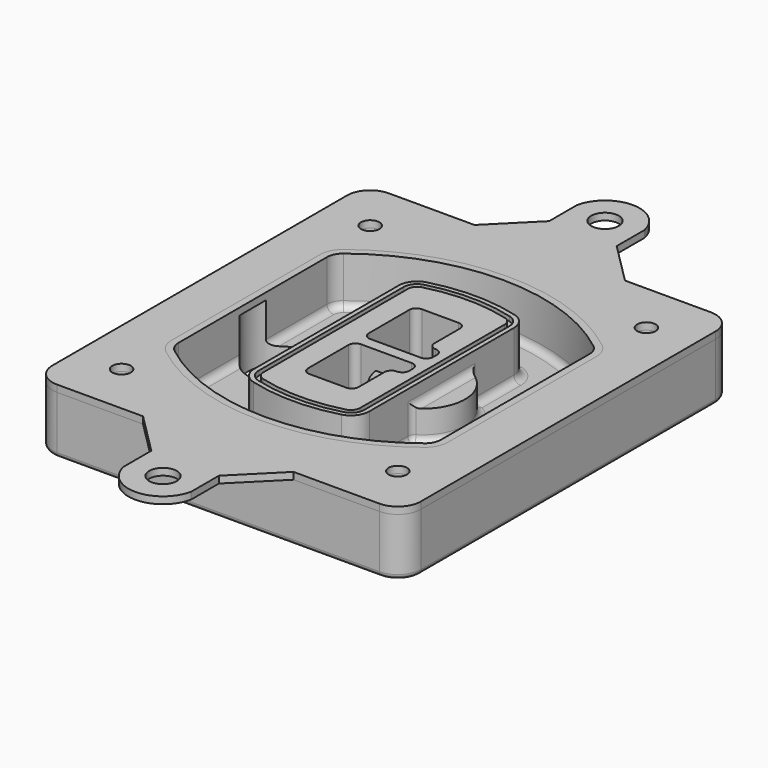
from build123d import *

# Parameters (mm, degrees)
F0_R      = 4
F1_DEPTH  = 25
F2_DEPTH  = 3
F3_DEPTH  = 18
F5_DEPTH  = 21
F6_DEPTH  = 2
F8_DEPTH  = 20
F9_DEPTH  = 16
F10_DEPTH = 25
F7_R      = 6
F7_R_2    = 4
F11_DEPTH = 6
F13_DEPTH = 9
F14_R     = 3
F15_R     = 2
F16_R     = 6
F16_R_2   = 4
F17_DEPTH = 3


with BuildPart() as f1:
    # F0 (on Top) → F1 (new body)
    with BuildSketch(Plane.XY):
        with BuildLine():
            ThreePointArc((-80, -80), (-77.0710678119, -87.0710678119), (-70, -90))
            Line((-70, -90), (70, -90))
            ThreePointArc((70, -90), (77.0710678119, -87.0710678119), (80, -80))
            Line((80, -80), (80, 80))
            ThreePointArc((80, 80), (77.0710678119, 87.0710678119), (70, 90))
            Line((70, 90), (-70, 90))
            ThreePointArc((-70, 90), (-77.0710678119, 87.0710678119), (-80, 80))
            Line((-80, 80), (-80, -80))
        make_face()
        with Locations((-60, -67.5)):
            Circle(F0_R, mode=Mode.SUBTRACT)
        with Locations((60, -67.5)):
            Circle(F0_R, mode=Mode.SUBTRACT)
        with Locations((-60, 67.5)):
            Circle(F0_R, mode=Mode.SUBTRACT)
        with BuildLine():
            ThreePointArc((-64, 40.2934422872), (-62.5820384798, 46.4328484224), (-58.6153846154, 51.3286200352))
            ThreePointArc((-58.6153846154, 51.3286200352), (0, 71.5), (58.6153846154, 51.3286200352))
            ThreePointArc((58.6153846154, 51.3286200352), (62.5820384798, 46.4328484224), (64, 40.2934422872))
            Line((64, 40.2934422872), (64, -40.2934422872))
            ThreePointArc((64, -40.2934422872), (62.5820384798, -46.4328484224), (58.6153846154, -51.3286200352))
            ThreePointArc((58.6153846154, -51.3286200352), (0, -71.5), (-58.6153846154, -51.3286200352))
            ThreePointArc((-58.6153846154, -51.3286200352), (-62.5820384798, -46.4328484224), (-64, -40.2934422872))
            Line((-64, -40.2934422872), (-64, 40.2934422872))
        make_face(mode=Mode.SUBTRACT)
        with Locations((60, 67.5)):
            Circle(F0_R, mode=Mode.SUBTRACT)
        with BuildLine():
            ThreePointArc((58.6153846154, 51.3286200352), (0, 71.5), (-58.6153846154, 51.3286200352))
            ThreePointArc((-58.6153846154, 51.3286200352), (-62.5820384798, 46.4328484224), (-64, 40.2934422872))
            Line((-64, 40.2934422872), (-64, -40.2934422872))
            ThreePointArc((-64, -40.2934422872), (-62.5820384798, -46.4328484224), (-58.6153846154, -51.3286200352))
            ThreePointArc((-58.6153846154, -51.3286200352), (0, -71.5), (58.6153846154, -51.3286200352))
            ThreePointArc((58.6153846154, -51.3286200352), (62.5820384798, -46.4328484224), (64, -40.2934422872))
            Line((64, -40.2934422872), (64, 40.2934422872))
            ThreePointArc((64, 40.2934422872), (62.5820384798, 46.4328484224), (58.6153846154, 51.3286200352))
        make_face()
        with BuildLine():
            Line((-60, -40.2934422872), (-60, 40.2934422872))
            ThreePointArc((-60, 40.2934422872), (-58.9871703427, 44.6787323838), (-56.1538461538, 48.1757121072))
            ThreePointArc((-56.1538461538, 48.1757121072), (0, 67.5), (56.1538461538, 48.1757121072))
            ThreePointArc((56.1538461538, 48.1757121072), (58.9871703427, 44.6787323838), (60, 40.2934422872))
            Line((60, 40.2934422872), (60, -40.2934422872))
            ThreePointArc((60, -40.2934422872), (58.9871703427, -44.6787323838), (56.1538461538, -48.1757121072))
            ThreePointArc((56.1538461538, -48.1757121072), (0, -67.5), (-56.1538461538, -48.1757121072))
            ThreePointArc((-56.1538461538, -48.1757121072), (-58.9871703427, -44.6787323838), (-60, -40.2934422872))
        make_face(mode=Mode.SUBTRACT)
        with BuildLine():
            ThreePointArc((-56.1538461538, 48.1757121072), (-58.9871703427, 44.6787323838), (-60, 40.2934422872))
            Line((-60, 40.2934422872), (-60, -40.2934422872))
            ThreePointArc((-60, -40.2934422872), (-58.9871703427, -44.6787323838), (-56.1538461538, -48.1757121072))
            ThreePointArc((-56.1538461538, -48.1757121072), (0, -67.5), (56.1538461538, -48.1757121072))
            ThreePointArc((56.1538461538, -48.1757121072), (58.9871703427, -44.6787323838), (60, -40.2934422872))
            Line((60, -40.2934422872), (60, 40.2934422872))
            ThreePointArc((60, 40.2934422872), (58.9871703427, 44.6787323838), (56.1538461538, 48.1757121072))
            ThreePointArc((56.1538461538, 48.1757121072), (0, 67.5), (-56.1538461538, 48.1757121072))
        make_face()
        with BuildLine():
            ThreePointArc((54.3076923077, 45.8110311612), (56.2910192399, 43.3631453548), (57, 40.2934422872))
            Line((57, 40.2934422872), (57, -40.2934422872))
            ThreePointArc((57, -40.2934422872), (56.2910192399, -43.3631453548), (54.3076923077, -45.8110311612))
            ThreePointArc((54.3076923077, -45.8110311612), (0, -64.5), (-54.3076923077, -45.8110311612))
            ThreePointArc((-54.3076923077, -45.8110311612), (-56.2910192399, -43.3631453548), (-57, -40.2934422872))
            Line((-57, -40.2934422872), (-57, 40.2934422872))
            ThreePointArc((-57, 40.2934422872), (-56.2910192399, 43.3631453548), (-54.3076923077, 45.8110311612))
            ThreePointArc((-54.3076923077, 45.8110311612), (0, 64.5), (54.3076923077, 45.8110311612))
        make_face(mode=Mode.SUBTRACT)
        with BuildLine():
            Line((57, -40.2934422872), (57, 40.2934422872))
            ThreePointArc((57, 40.2934422872), (56.2910192399, 43.3631453548), (54.3076923077, 45.8110311612))
            ThreePointArc((54.3076923077, 45.8110311612), (0, 64.5), (-54.3076923077, 45.8110311612))
            ThreePointArc((-54.3076923077, 45.8110311612), (-56.2910192399, 43.3631453548), (-57, 40.2934422872))
            Line((-57, 40.2934422872), (-57, -40.2934422872))
            ThreePointArc((-57, -40.2934422872), (-56.2910192399, -43.3631453548), (-54.3076923077, -45.8110311612))
            ThreePointArc((-54.3076923077, -45.8110311612), (0, -64.5), (54.3076923077, -45.8110311612))
            ThreePointArc((54.3076923077, -45.8110311612), (56.2910192399, -43.3631453548), (57, -40.2934422872))
        make_face()
    extrude(amount=-F1_DEPTH)

    # F0 (on Top) → F2 (join)
    with BuildSketch(Plane.XY):
        with BuildLine():
            ThreePointArc((-56.1538461538, 48.1757121072), (-58.9871703427, 44.6787323838), (-60, 40.2934422872))
            Line((-60, 40.2934422872), (-60, -40.2934422872))
            ThreePointArc((-60, -40.2934422872), (-58.9871703427, -44.6787323838), (-56.1538461538, -48.1757121072))
            ThreePointArc((-56.1538461538, -48.1757121072), (0, -67.5), (56.1538461538, -48.1757121072))
            ThreePointArc((56.1538461538, -48.1757121072), (58.9871703427, -44.6787323838), (60, -40.2934422872))
            Line((60, -40.2934422872), (60, 40.2934422872))
            ThreePointArc((60, 40.2934422872), (58.9871703427, 44.6787323838), (56.1538461538, 48.1757121072))
            ThreePointArc((56.1538461538, 48.1757121072), (0, 67.5), (-56.1538461538, 48.1757121072))
        make_face()
        with BuildLine():
            ThreePointArc((54.3076923077, 45.8110311612), (56.2910192399, 43.3631453548), (57, 40.2934422872))
            Line((57, 40.2934422872), (57, -40.2934422872))
            ThreePointArc((57, -40.2934422872), (56.2910192399, -43.3631453548), (54.3076923077, -45.8110311612))
            ThreePointArc((54.3076923077, -45.8110311612), (0, -64.5), (-54.3076923077, -45.8110311612))
            ThreePointArc((-54.3076923077, -45.8110311612), (-56.2910192399, -43.3631453548), (-57, -40.2934422872))
            Line((-57, -40.2934422872), (-57, 40.2934422872))
            ThreePointArc((-57, 40.2934422872), (-56.2910192399, 43.3631453548), (-54.3076923077, 45.8110311612))
            ThreePointArc((-54.3076923077, 45.8110311612), (0, 64.5), (54.3076923077, 45.8110311612))
        make_face(mode=Mode.SUBTRACT)
    extrude(amount=F2_DEPTH)

    # F0 (on Top) → F3 (cut)
    with BuildSketch(Plane.XY):
        with BuildLine():
            Line((57, -40.2934422872), (57, 40.2934422872))
            ThreePointArc((57, 40.2934422872), (56.2910192399, 43.3631453548), (54.3076923077, 45.8110311612))
            ThreePointArc((54.3076923077, 45.8110311612), (0, 64.5), (-54.3076923077, 45.8110311612))
            ThreePointArc((-54.3076923077, 45.8110311612), (-56.2910192399, 43.3631453548), (-57, 40.2934422872))
            Line((-57, 40.2934422872), (-57, -40.2934422872))
            ThreePointArc((-57, -40.2934422872), (-56.2910192399, -43.3631453548), (-54.3076923077, -45.8110311612))
            ThreePointArc((-54.3076923077, -45.8110311612), (0, -64.5), (54.3076923077, -45.8110311612))
            ThreePointArc((54.3076923077, -45.8110311612), (56.2910192399, -43.3631453548), (57, -40.2934422872))
        make_face()
    extrude(amount=-F3_DEPTH, mode=Mode.SUBTRACT)

    # F4 (on face) → F5 (join, through all)
    with BuildSketch(Plane.XY.offset(3)):
        with BuildLine():
            ThreePointArc((-25, -39.2465276821), (-23.3511545998, -44.1109737193), (-19.0842911877, -46.9702398883))
            ThreePointArc((-19.0842911877, -46.9702398883), (0, -49.5), (19.0842911877, -46.9702398883))
            ThreePointArc((19.0842911877, -46.9702398883), (23.3511545998, -44.1109737193), (25, -39.2465276821))
            Line((25, -39.2465276821), (25, 39.2465276821))
            ThreePointArc((25, 39.2465276821), (23.3511545998, 44.1109737193), (19.0842911877, 46.9702398883))
            ThreePointArc((19.0842911877, 46.9702398883), (0, 49.5), (-19.0842911877, 46.9702398883))
            ThreePointArc((-19.0842911877, 46.9702398883), (-23.3511545998, 44.1109737193), (-25, 39.2465276821))
            Line((-25, 39.2465276821), (-25, -39.2465276821))
        make_face()
        with BuildLine():
            ThreePointArc((18.5632183908, 45.0393118368), (21.7633659499, 42.89486221), (23, 39.2465276821))
            Line((23, 39.2465276821), (23, -39.2465276821))
            ThreePointArc((23, -39.2465276821), (21.7633659499, -42.89486221), (18.5632183908, -45.0393118368))
            ThreePointArc((18.5632183908, -45.0393118368), (0, -47.5), (-18.5632183908, -45.0393118368))
            ThreePointArc((-18.5632183908, -45.0393118368), (-21.7633659499, -42.89486221), (-23, -39.2465276821))
            Line((-23, -39.2465276821), (-23, 39.2465276821))
            ThreePointArc((-23, 39.2465276821), (-21.7633659499, 42.89486221), (-18.5632183908, 45.0393118368))
            ThreePointArc((-18.5632183908, 45.0393118368), (0, 47.5), (18.5632183908, 45.0393118368))
        make_face(mode=Mode.SUBTRACT)
        with BuildLine():
            Line((23, -39.2465276821), (23, 39.2465276821))
            ThreePointArc((23, 39.2465276821), (21.7633659499, 42.89486221), (18.5632183908, 45.0393118368))
            ThreePointArc((18.5632183908, 45.0393118368), (0, 47.5), (-18.5632183908, 45.0393118368))
            ThreePointArc((-18.5632183908, 45.0393118368), (-21.7633659499, 42.89486221), (-23, 39.2465276821))
            Line((-23, 39.2465276821), (-23, -39.2465276821))
            ThreePointArc((-23, -39.2465276821), (-21.7633659499, -42.89486221), (-18.5632183908, -45.0393118368))
            ThreePointArc((-18.5632183908, -45.0393118368), (0, -47.5), (18.5632183908, -45.0393118368))
            ThreePointArc((18.5632183908, -45.0393118368), (21.7633659499, -42.89486221), (23, -39.2465276821))
        make_face()
        with BuildLine():
            ThreePointArc((18.0421455939, 43.1083837852), (20.1755772999, 41.6787507007), (21, 39.2465276821))
            Line((21, 39.2465276821), (21, -39.2465276821))
            ThreePointArc((21, -39.2465276821), (20.1755772999, -41.6787507007), (18.0421455939, -43.1083837852))
            ThreePointArc((18.0421455939, -43.1083837852), (0, -45.5), (-18.0421455939, -43.1083837852))
            ThreePointArc((-18.0421455939, -43.1083837852), (-20.1755772999, -41.6787507007), (-21, -39.2465276821))
            Line((-21, -39.2465276821), (-21, 39.2465276821))
            ThreePointArc((-21, 39.2465276821), (-20.1755772999, 41.6787507007), (-18.0421455939, 43.1083837852))
            ThreePointArc((-18.0421455939, 43.1083837852), (0, 45.5), (18.0421455939, 43.1083837852))
        make_face(mode=Mode.SUBTRACT)
        with BuildLine():
            Line((21, -39.2465276821), (21, 39.2465276821))
            ThreePointArc((21, 39.2465276821), (20.1755772999, 41.6787507007), (18.0421455939, 43.1083837852))
            ThreePointArc((18.0421455939, 43.1083837852), (0, 45.5), (-18.0421455939, 43.1083837852))
            ThreePointArc((-18.0421455939, 43.1083837852), (-20.1755772999, 41.6787507007), (-21, 39.2465276821))
            Line((-21, 39.2465276821), (-21, -39.2465276821))
            ThreePointArc((-21, -39.2465276821), (-20.1755772999, -41.6787507007), (-18.0421455939, -43.1083837852))
            ThreePointArc((-18.0421455939, -43.1083837852), (0, -45.5), (18.0421455939, -43.1083837852))
            ThreePointArc((18.0421455939, -43.1083837852), (20.1755772999, -41.6787507007), (21, -39.2465276821))
        make_face()
        with BuildLine():
            Line((-8, -2.5), (14, -2.5))
            ThreePointArc((14, -2.5), (16.1213203436, -3.3786796564), (17, -5.5))
            Line((17, -5.5), (17, -7.5))
            ThreePointArc((17, -7.5), (16.1213203436, -9.6213203436), (14, -10.5))
            ThreePointArc((14, -10.5), (11.8786796564, -11.3786796564), (11, -13.5))
            Line((11, -13.5), (11, -27.5))
            ThreePointArc((11, -27.5), (10.1213203436, -29.6213203436), (8, -30.5))
            Line((8, -30.5), (-8, -30.5))
            ThreePointArc((-8, -30.5), (-10.1213203436, -29.6213203436), (-11, -27.5))
            Line((-11, -27.5), (-11, -5.5))
            ThreePointArc((-11, -5.5), (-10.1213203436, -3.3786796564), (-8, -2.5))
        make_face(mode=Mode.SUBTRACT)
        with BuildLine():
            ThreePointArc((-8, 2.5), (-10.1213203436, 3.3786796564), (-11, 5.5))
            Line((-11, 5.5), (-11, 27.5))
            ThreePointArc((-11, 27.5), (-10.1213203436, 29.6213203436), (-8, 30.5))
            Line((-8, 30.5), (8, 30.5))
            ThreePointArc((8, 30.5), (10.1213203436, 29.6213203436), (11, 27.5))
            Line((11, 27.5), (11, 13.5))
            ThreePointArc((11, 13.5), (11.8786796564, 11.3786796564), (14, 10.5))
            ThreePointArc((14, 10.5), (16.1213203436, 9.6213203436), (17, 7.5))
            Line((17, 7.5), (17, 5.5))
            ThreePointArc((17, 5.5), (16.1213203436, 3.3786796564), (14, 2.5))
            Line((14, 2.5), (-8, 2.5))
        make_face(mode=Mode.SUBTRACT)
    extrude(amount=-F5_DEPTH)

    # F4 (on face) → F6 (cut)
    with BuildSketch(Plane.XY.offset(3)):
        with BuildLine():
            Line((23, -39.2465276821), (23, 39.2465276821))
            ThreePointArc((23, 39.2465276821), (21.7633659499, 42.89486221), (18.5632183908, 45.0393118368))
            ThreePointArc((18.5632183908, 45.0393118368), (0, 47.5), (-18.5632183908, 45.0393118368))
            ThreePointArc((-18.5632183908, 45.0393118368), (-21.7633659499, 42.89486221), (-23, 39.2465276821))
            Line((-23, 39.2465276821), (-23, -39.2465276821))
            ThreePointArc((-23, -39.2465276821), (-21.7633659499, -42.89486221), (-18.5632183908, -45.0393118368))
            ThreePointArc((-18.5632183908, -45.0393118368), (0, -47.5), (18.5632183908, -45.0393118368))
            ThreePointArc((18.5632183908, -45.0393118368), (21.7633659499, -42.89486221), (23, -39.2465276821))
        make_face()
        with BuildLine():
            ThreePointArc((18.0421455939, 43.1083837852), (20.1755772999, 41.6787507007), (21, 39.2465276821))
            Line((21, 39.2465276821), (21, -39.2465276821))
            ThreePointArc((21, -39.2465276821), (20.1755772999, -41.6787507007), (18.0421455939, -43.1083837852))
            ThreePointArc((18.0421455939, -43.1083837852), (0, -45.5), (-18.0421455939, -43.1083837852))
            ThreePointArc((-18.0421455939, -43.1083837852), (-20.1755772999, -41.6787507007), (-21, -39.2465276821))
            Line((-21, -39.2465276821), (-21, 39.2465276821))
            ThreePointArc((-21, 39.2465276821), (-20.1755772999, 41.6787507007), (-18.0421455939, 43.1083837852))
            ThreePointArc((-18.0421455939, 43.1083837852), (0, 45.5), (18.0421455939, 43.1083837852))
        make_face(mode=Mode.SUBTRACT)
    extrude(amount=-F6_DEPTH, mode=Mode.SUBTRACT)

    # F7 (on face) → F8 (join)
    with BuildSketch(Plane(origin=(0, 0, -25), x_dir=(1, 0, 0), z_dir=(0, 0, -1))):
        with BuildLine():
            ThreePointArc((3.28842436, 0), (16.7567035675, 13.4682792075), (30.224982775, 0))
            Line((30.224982775, 0), (35.224982775, 0))
            ThreePointArc((35.224982775, 0), (16.7567035675, 18.4682792075), (-1.71157564, 0))
            Line((-1.71157564, 0), (3.28842436, 0))
        make_face()
        with BuildLine():
            Line((3.28842436, 0), (30.224982775, 0))
            ThreePointArc((30.224982775, 0), (16.7567035675, 13.4682792075), (3.28842436, 0))
        make_face()
        with BuildLine():
            ThreePointArc((3.28842436, 0), (16.7567035675, -13.4682792075), (30.224982775, 0))
            Line((30.224982775, 0), (3.28842436, 0))
        make_face()
        with BuildLine():
            Line((35.224982775, 0), (30.224982775, 0))
            ThreePointArc((30.224982775, 0), (16.7567035675, -13.4682792075), (3.28842436, 0))
            Line((3.28842436, 0), (-1.71157564, 0))
            ThreePointArc((-1.71157564, 0), (16.7567035675, -18.4682792075), (35.224982775, 0))
        make_face()
    extrude(amount=-F8_DEPTH)

    # F7 (on face) → F9 (cut)
    with BuildSketch(Plane(origin=(0, 0, -25), x_dir=(1, 0, 0), z_dir=(0, 0, -1))):
        with BuildLine():
            Line((3.28842436, 0), (30.224982775, 0))
            ThreePointArc((30.224982775, 0), (16.7567035675, 13.4682792075), (3.28842436, 0))
        make_face()
        with BuildLine():
            ThreePointArc((3.28842436, 0), (16.7567035675, -13.4682792075), (30.224982775, 0))
            Line((30.224982775, 0), (3.28842436, 0))
        make_face()
    extrude(amount=-F9_DEPTH, mode=Mode.SUBTRACT)

    # F7 (on face) → F10 (cut)
    with BuildSketch(Plane(origin=(0, 0, -25), x_dir=(1, 0, 0), z_dir=(0, 0, -1))):
        with BuildLine():
            Line((-59.0318229325, 0), (-32.0952645175, 0))
            ThreePointArc((-32.0952645175, 0), (-45.563543725, 13.4682792075), (-59.0318229325, 0))
        make_face()
        with BuildLine():
            ThreePointArc((-59.0318229325, 0), (-45.563543725, -13.4682792075), (-32.0952645175, 0))
            Line((-32.0952645175, 0), (-59.0318229325, 0))
        make_face()
    extrude(amount=-F10_DEPTH, mode=Mode.SUBTRACT)

    # F7 (on face) → F11 (cut)
    with BuildSketch(Plane(origin=(0, 0, -25), x_dir=(1, 0, 0), z_dir=(0, 0, -1))):
        with Locations((60, -67.5)):
            Circle(F7_R)
        with Locations((60, -67.5)):
            Circle(F7_R_2, mode=Mode.SUBTRACT)
        with Locations((60, -67.5)):
            Circle(F7_R)
        with Locations((60, -67.5)):
            Circle(F7_R_2, mode=Mode.SUBTRACT)
        with Locations((-60, -67.5)):
            Circle(F7_R)
        with Locations((-60, -67.5)):
            Circle(F7_R_2, mode=Mode.SUBTRACT)
        with Locations((-60, -67.5)):
            Circle(F7_R)
        with Locations((-60, -67.5)):
            Circle(F7_R_2, mode=Mode.SUBTRACT)
        with Locations((-60, 67.5)):
            Circle(F7_R)
        with Locations((-60, 67.5)):
            Circle(F7_R_2, mode=Mode.SUBTRACT)
        with Locations((-60, 67.5)):
            Circle(F7_R)
        with Locations((-60, 67.5)):
            Circle(F7_R_2, mode=Mode.SUBTRACT)
        with Locations((60, 67.5)):
            Circle(F7_R)
        with Locations((60, 67.5)):
            Circle(F7_R_2, mode=Mode.SUBTRACT)
        with Locations((60, 67.5)):
            Circle(F7_R)
        with Locations((60, 67.5)):
            Circle(F7_R_2, mode=Mode.SUBTRACT)
    extrude(amount=-F11_DEPTH, mode=Mode.SUBTRACT)

    # F12 (on face) → F13 (cut, through all)
    with BuildSketch(Plane(origin=(0, 0, -9), x_dir=(1, 0, 0), z_dir=(0, 0, -1))):
        with BuildLine():
            Line((11, 13.5), (11, 17.5481537753))
            ThreePointArc((11, 17.5481537753), (2.5696536419, 11.8239143813), (-1.5415842455, 2.5))
            Line((-1.5415842455, 2.5), (3.5224848595, 2.5))
            ThreePointArc((3.5224848595, 2.5), (6.1857188154, 8.3455872281), (11.2536447004, 12.2927168648))
            ThreePointArc((11.2536447004, 12.2927168648), (11.0640958889, 12.8831798879), (11, 13.5))
        make_face()
        with BuildLine():
            ThreePointArc((11.2536447004, -12.2927168648), (6.1857188154, -8.3455872281), (3.5224848595, -2.5))
            Line((3.5224848595, -2.5), (-1.5415842455, -2.5))
            ThreePointArc((-1.5415842455, -2.5), (2.5696536419, -11.8239143813), (11, -17.5481537753))
            Line((11, -17.5481537753), (11, -13.5))
            ThreePointArc((11, -13.5), (11.0640958889, -12.8831798879), (11.2536447004, -12.2927168648))
        make_face()
        with BuildLine():
            ThreePointArc((11.2536447004, 12.2927168648), (6.1857188154, 8.3455872281), (3.5224848595, 2.5))
            Line((3.5224848595, 2.5), (14, 2.5))
            ThreePointArc((14, 2.5), (16.1213203436, 3.3786796564), (17, 5.5))
            Line((17, 5.5), (17, 7.5))
            ThreePointArc((17, 7.5), (16.1213203436, 9.6213203436), (14, 10.5))
            ThreePointArc((14, 10.5), (12.3601599782, 10.9878446101), (11.2536447004, 12.2927168648))
        make_face()
        with BuildLine():
            Line((14, -2.5), (3.5224848595, -2.5))
            ThreePointArc((3.5224848595, -2.5), (6.1857188154, -8.3455872281), (11.2536447004, -12.2927168648))
            ThreePointArc((11.2536447004, -12.2927168648), (12.3601599782, -10.9878446101), (14, -10.5))
            ThreePointArc((14, -10.5), (16.1213203436, -9.6213203436), (17, -7.5))
            Line((17, -7.5), (17, -5.5))
            ThreePointArc((17, -5.5), (16.1213203436, -3.3786796564), (14, -2.5))
        make_face()
    extrude(amount=F13_DEPTH, mode=Mode.SUBTRACT)

    # F14
    f14_edges = [f1.edges().sort_by_distance(p)[0] for p in [
        (-57, -23.703476, -18),
        (-57, 23.703476, -18),
        (25, 0, -5),
        (25, 16.526506, -11.5),
        (25, -16.526506, -11.5),
        (25, -27.886517, -18),
        (35.224983, 0, -18),
    ]]
    fillet(f14_edges, radius=F14_R)

    # F15
    f15_edges = [f1.edges().sort_by_distance(p)[0] for p in [
        (0, -90, -25),
    ]]
    fillet(f15_edges, radius=F15_R)


with BuildPart() as f17:
    # F16 (on face) → F17 (new body, through all)
    with BuildSketch(Plane.XY):
        with BuildLine():
            Line((-32.6740940336, 90), (32.6740940336, 90))
            Line((32.6740940336, 90), (14.6740940336, 108))
            Line((14.6740940336, 108), (14.6740940336, 123.1098174051))
            ThreePointArc((14.6740940336, 123.1098174051), (0, 135), (-14.6740940336, 123.1098174051))
            Line((-14.6740940336, 123.1098174051), (-14.6740940336, 108))
            Line((-14.6740940336, 108), (-32.6740940336, 90))
        make_face()
        with Locations((0, 120)):
            Circle(F16_R, mode=Mode.SUBTRACT)
        with BuildLine():
            ThreePointArc((70, -90), (77.0710678119, -87.0710678119), (80, -80))
            Line((80, -80), (80, 80))
            ThreePointArc((80, 80), (77.0710678119, 87.0710678119), (70, 90))
            Line((70, 90), (32.6740940336, 90))
            Line((32.6740940336, 90), (-32.6740940336, 90))
            Line((-32.6740940336, 90), (-70, 90))
            ThreePointArc((-70, 90), (-77.0710678119, 87.0710678119), (-80, 80))
            Line((-80, 80), (-80, -80))
            ThreePointArc((-80, -80), (-77.0710678119, -87.0710678119), (-70, -90))
            Line((-70, -90), (-32.6740940336, -90))
            Line((-32.6740940336, -90), (32.6740940336, -90))
            Line((32.6740940336, -90), (70, -90))
        make_face()
        with Locations((-60, -67.5)):
            Circle(F16_R_2, mode=Mode.SUBTRACT)
        with Locations((60, -67.5)):
            Circle(F16_R_2, mode=Mode.SUBTRACT)
        with Locations((-60, 67.5)):
            Circle(F16_R_2, mode=Mode.SUBTRACT)
        with BuildLine():
            Line((-60, -40.2934422872), (-60, 40.2934422872))
            ThreePointArc((-60, 40.2934422872), (-58.9871703427, 44.6787323838), (-56.1538461538, 48.1757121072))
            ThreePointArc((-56.1538461538, 48.1757121072), (0, 67.5), (56.1538461538, 48.1757121072))
            ThreePointArc((56.1538461538, 48.1757121072), (58.9871703427, 44.6787323838), (60, 40.2934422872))
            Line((60, 40.2934422872), (60, -40.2934422872))
            ThreePointArc((60, -40.2934422872), (58.9871703427, -44.6787323838), (56.1538461538, -48.1757121072))
            ThreePointArc((56.1538461538, -48.1757121072), (0, -67.5), (-56.1538461538, -48.1757121072))
            ThreePointArc((-56.1538461538, -48.1757121072), (-58.9871703427, -44.6787323838), (-60, -40.2934422872))
        make_face(mode=Mode.SUBTRACT)
        with Locations((60, 67.5)):
            Circle(F16_R_2, mode=Mode.SUBTRACT)
        with BuildLine():
            Line((14.6740940336, -108), (32.6740940336, -90))
            Line((32.6740940336, -90), (-32.6740940336, -90))
            Line((-32.6740940336, -90), (-14.6740940336, -108))
            Line((-14.6740940336, -108), (-14.6740940336, -123.1098174051))
            ThreePointArc((-14.6740940336, -123.1098174051), (0, -135), (14.6740940336, -123.1098174051))
            Line((14.6740940336, -123.1098174051), (14.6740940336, -108))
        make_face()
        with Locations((0, -120)):
            Circle(F16_R, mode=Mode.SUBTRACT)
    extrude(amount=F17_DEPTH)


solid = Compound([f1.part, f17.part])
